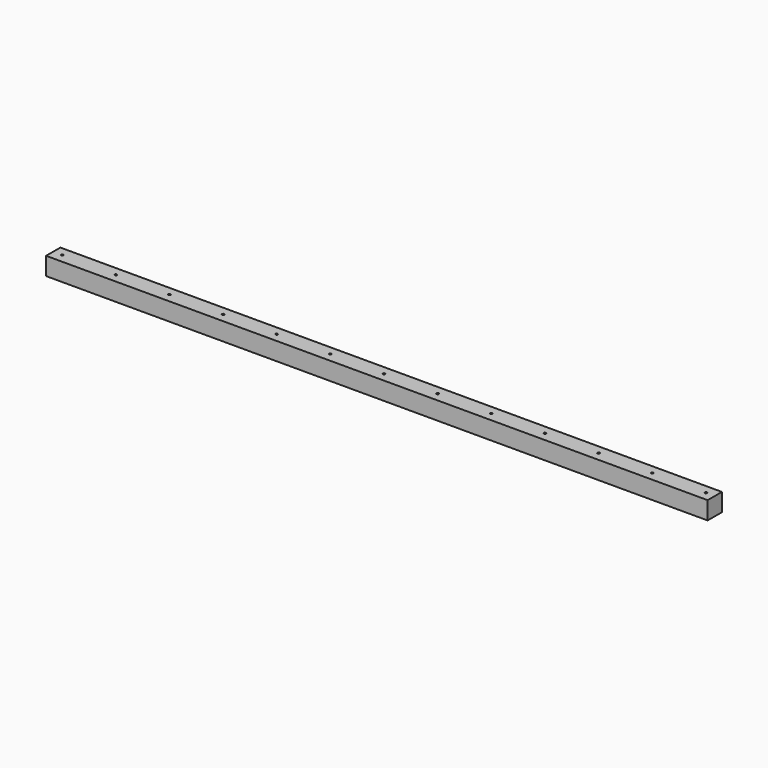
from build123d import *

# Parameters (mm, degrees)
F0_W     = 1879.6
F0_H     = 50.8
F0_R     = 3.175
F1_DEPTH = 50.8


with BuildPart() as f1:
    # F0 (on Top) → F1 (new body)
    with BuildSketch(Plane.XY):
        with Locations((939.8, 25.4)):
            Rectangle(F0_W, F0_H)
        with Locations((25.4, 25.4)):
            Circle(F0_R, mode=Mode.SUBTRACT)
        with Locations((177.8, 25.4)):
            Circle(F0_R, mode=Mode.SUBTRACT)
        with Locations((330.2, 25.4)):
            Circle(F0_R, mode=Mode.SUBTRACT)
        with Locations((482.6, 25.4)):
            Circle(F0_R, mode=Mode.SUBTRACT)
        with Locations((635, 25.4)):
            Circle(F0_R, mode=Mode.SUBTRACT)
        with Locations((787.4, 25.4)):
            Circle(F0_R, mode=Mode.SUBTRACT)
        with Locations((939.8, 25.4)):
            Circle(F0_R, mode=Mode.SUBTRACT)
        with Locations((1092.2, 25.4)):
            Circle(F0_R, mode=Mode.SUBTRACT)
        with Locations((1244.6, 25.4)):
            Circle(F0_R, mode=Mode.SUBTRACT)
        with Locations((1397, 25.4)):
            Circle(F0_R, mode=Mode.SUBTRACT)
        with Locations((1549.4, 25.4)):
            Circle(F0_R, mode=Mode.SUBTRACT)
        with Locations((1701.8, 25.4)):
            Circle(F0_R, mode=Mode.SUBTRACT)
        with Locations((1854.2, 25.4)):
            Circle(F0_R, mode=Mode.SUBTRACT)
    extrude(amount=F1_DEPTH)


solid = f1.part
